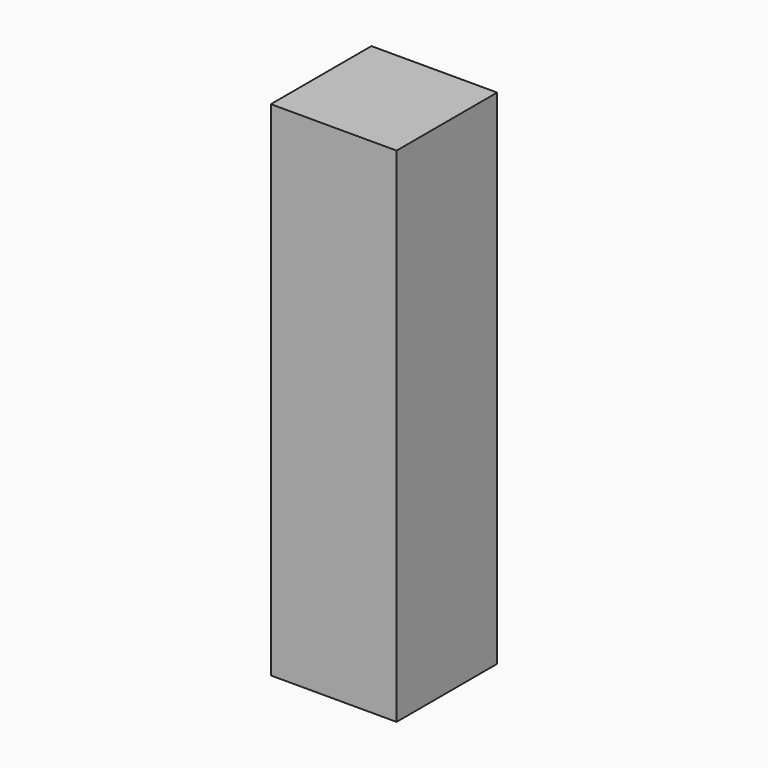
from build123d import *

# Parameters (mm, degrees)
F0_W     = 50.8
F0_H     = 50.8
F0_W_2   = 46.8
F0_H_2   = 46.8
F1_DEPTH = 3.175
F2_DEPTH = 200.025


with BuildPart() as f1:
    # F0 (on Top) → F1 (new body)
    with BuildSketch(Plane.XY):
        Rectangle(F0_W, F0_H)
        Rectangle(F0_W_2, F0_H_2, mode=Mode.SUBTRACT)
        Rectangle(F0_W_2, F0_H_2)
    extrude(amount=F1_DEPTH)

    # F0 (on Top) → F2 (join)
    with BuildSketch(Plane.XY):
        Rectangle(F0_W, F0_H)
        Rectangle(F0_W_2, F0_H_2, mode=Mode.SUBTRACT)
    extrude(amount=-F2_DEPTH)


solid = f1.part
